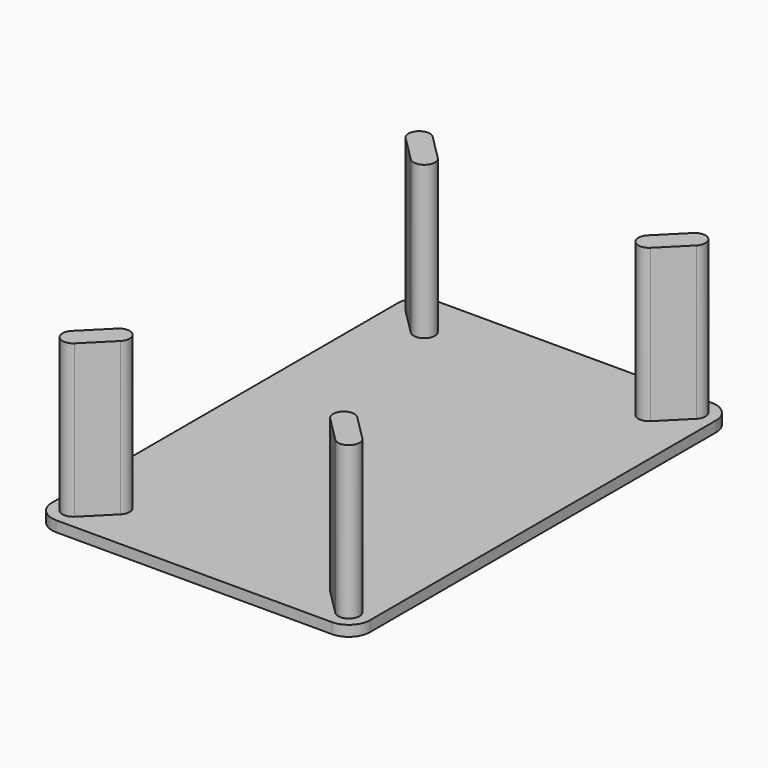
from build123d import *

# Parameters (mm, degrees)
F1_DEPTH = 25
F3_DEPTH = 360


with BuildPart() as f1:
    # F0 (on Top) → F1 (new body)
    with BuildSketch(Plane.XY):
        with BuildLine():
            Line((325, 560), (-325, 560))
            ThreePointArc((-325, 560), (-360.355339, 545.355339), (-375, 510))
            Line((-375, 510), (-375, -510))
            ThreePointArc((-375, -510), (-360.355339, -545.355339), (-325, -560))
            Line((-325, -560), (325, -560))
            ThreePointArc((325, -560), (360.355339, -545.355339), (375, -510))
            Line((375, -510), (375, 510))
            ThreePointArc((375, 510), (360.355339, 545.355339), (325, 560))
        make_face()
    extrude(amount=F1_DEPTH)

    # F2 (on face) → F3 (join)
    with BuildSketch(Plane.XY.offset(25)):
        with BuildLine():
            Line((-282.67767, -432.32233), (-342.67767, -492.32233))
            ThreePointArc((-342.67767, -492.32233), (-342.67767, -527.67767), (-307.32233, -527.67767))
            Line((-307.32233, -527.67767), (-247.32233, -467.67767))
            ThreePointArc((-247.32233, -467.67767), (-247.32233, -432.32233), (-282.67767, -432.32233))
        make_face()
        with BuildLine():
            Line((342.67767, -492.32233), (282.67767, -432.32233))
            ThreePointArc((282.67767, -432.32233), (247.32233, -432.32233), (247.32233, -467.67767))
            Line((247.32233, -467.67767), (307.32233, -527.67767))
            ThreePointArc((307.32233, -527.67767), (342.67767, -527.67767), (342.67767, -492.32233))
        make_face()
        with BuildLine():
            Line((282.67767, 432.32233), (342.67767, 492.32233))
            ThreePointArc((342.67767, 492.32233), (342.67767, 527.67767), (307.32233, 527.67767))
            Line((307.32233, 527.67767), (247.32233, 467.67767))
            ThreePointArc((247.32233, 467.67767), (247.32233, 432.32233), (282.67767, 432.32233))
        make_face()
        with BuildLine():
            ThreePointArc((-282.67767, 432.32233), (-247.32233, 432.32233), (-247.32233, 467.67767))
            Line((-247.32233, 467.67767), (-307.32233, 527.67767))
            ThreePointArc((-307.32233, 527.67767), (-342.67767, 527.67767), (-342.67767, 492.32233))
            Line((-342.67767, 492.32233), (-282.67767, 432.32233))
        make_face()
    extrude(amount=F3_DEPTH)


solid = f1.part
